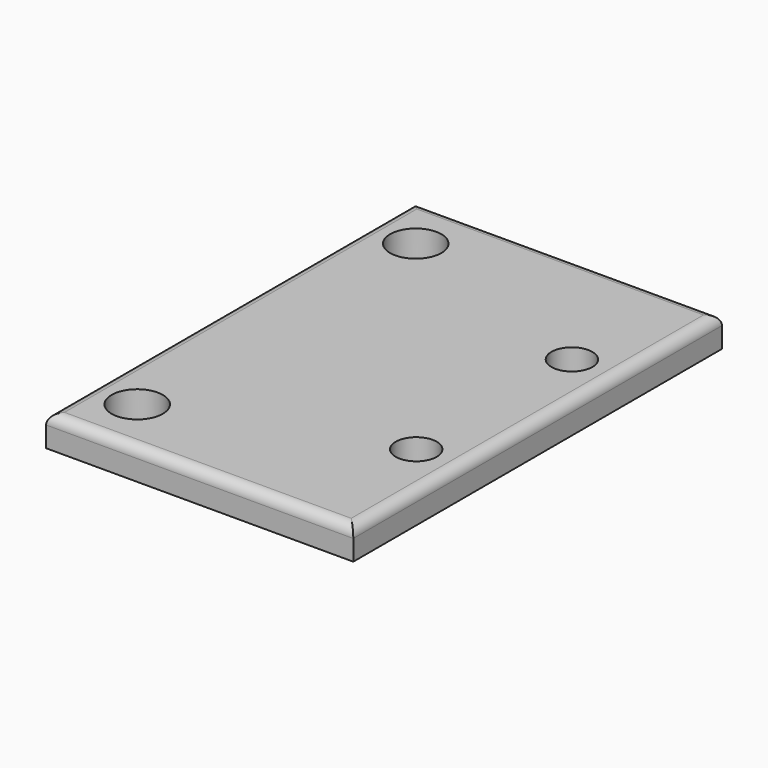
from build123d import *

# Parameters (mm, degrees)
SKETCH_R   = 2
SKETCH_R_2 = 2.5
PAD_DEPTH  = 3
FILLET_R   = 1


with BuildPart() as part:
    # Sketch → Pad (new body)
    with BuildSketch(Plane.XY):
        Polygon((3.298189, -21.861723), (33.298189, -21.861723), (33.298189, -8.861723), (33.298189, 10.138277), (33.298189, 23.138277), (3.298189, 23.138277), (3.298189, 17.638277), (3.298189, -16.361723), align=None)
        with Locations((29.048189, 10.138277)):
            Circle(SKETCH_R, mode=Mode.SUBTRACT)
        with Locations((29.048189, -8.861723)):
            Circle(SKETCH_R, mode=Mode.SUBTRACT)
        with Locations((7.798189, -16.361723)):
            Circle(SKETCH_R_2, mode=Mode.SUBTRACT)
        with Locations((7.798189, 17.638277)):
            Circle(SKETCH_R_2, mode=Mode.SUBTRACT)
    extrude(amount=PAD_DEPTH)

    # Fillet
    fillet_edges = [part.edges().sort_by_distance(p)[0] for p in [
        (18.298189, 23.138277, 3),
        (33.298189, 0.638277, 3),
        (33.298189, 16.638277, 3),
        (33.298189, -15.361723, 3),
        (18.298189, -21.861723, 3),
        (3.298189, 0.638277, 3),
        (3.298189, 20.388277, 3),
        (3.298189, -19.111723, 3),
    ]]
    fillet(fillet_edges, radius=FILLET_R)


solid = part.part
